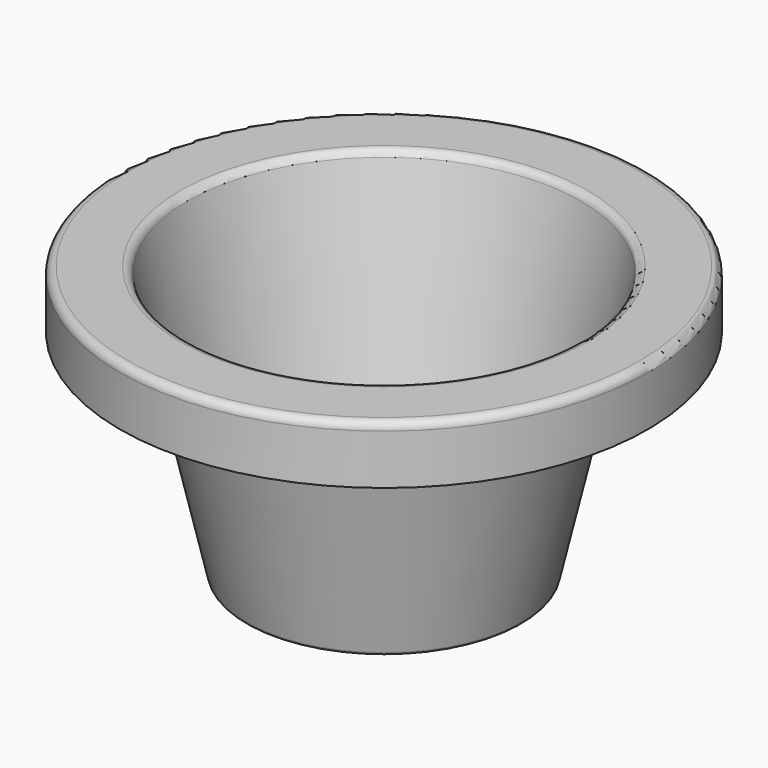
from build123d import *


with BuildPart() as part:
    # Sketch → Revolution (revolve)
    with BuildSketch(Plane.YZ):
        with BuildLine():
            Line((0, 0), (134.375587, 0))
            ThreePointArc((134.375587, 0), (136.452686, 0.726879), (137.623312, 2.590297))
            Line((137.623312, 2.590297), (197.24435, 263.953379))
            ThreePointArc((203.613453, 269.033202), (199.540062, 267.607722), (197.24435, 263.953379))
            Line((203.613453, 269.033202), (255.430231, 269.033202))
            ThreePointArc((261.846624, 262.616809), (259.967306, 267.153884), (255.430231, 269.033202))
            Line((261.846624, 262.616809), (261.846624, 212.756805))
            Line((261.846624, 212.756805), (263.346624, 212.756805))
            Line((263.346624, 212.756805), (263.346624, 262.616809))
            ThreePointArc((263.346624, 262.616809), (261.027966, 268.214544), (255.430231, 270.533202))
            Line((255.430231, 270.533202), (203.613453, 270.533202))
            ThreePointArc((203.613453, 270.533202), (198.604756, 268.780412), (195.781918, 264.286983))
            Line((195.781918, 264.286983), (136.16088, 2.923901))
            ThreePointArc((134.375587, 1.5), (135.51738, 1.89957), (136.16088, 2.923901))
            Line((134.375587, 1.5), (0, 1.5))
            Line((0, 1.5), (0, 0))
        make_face()
    revolve(axis=Axis((0, 0, 0), (0, 0, 1)))


solid = part.part
